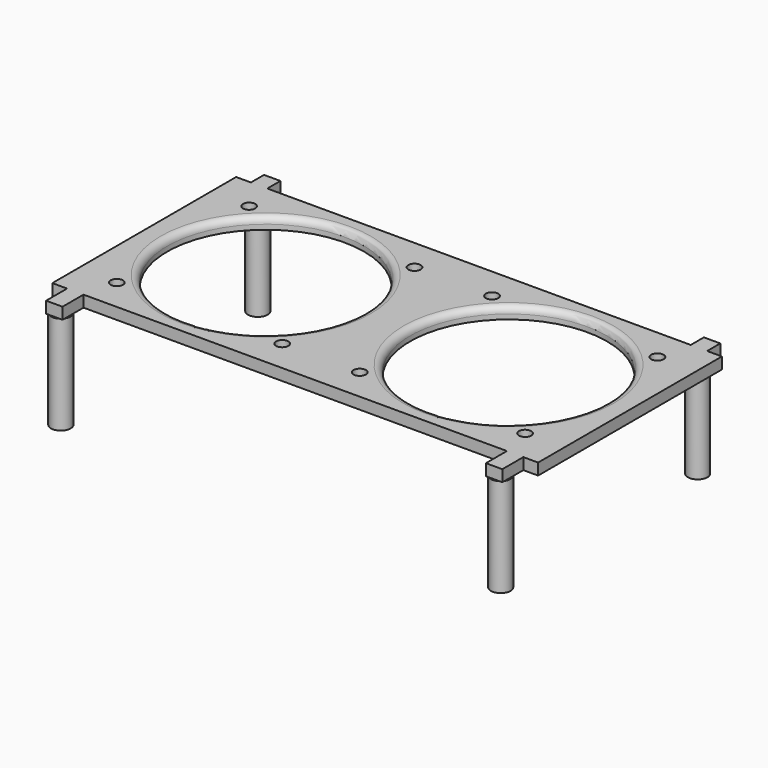
from build123d import *

# Parameters (mm, degrees)
F0_R      = 30
F0_W      = 5
F0_H      = 5
F3_DEPTH  = 3.5
F1_R      = 1.875
F4_DEPTH  = 25
F2_R      = 1.875
F5_DEPTH  = 25
F6_R      = 2
F7_R      = 3
F8_DEPTH  = 30
F10_R     = 1.575
F11_DEPTH = 7


with BuildPart() as f3:
    # F0 (on Top) → F3 (new body)
    with BuildSketch(Plane.XY):
        Polygon((69.5, -35), (74, -35), (74, 35), (69.5, 35), (64.5, 35), (-64.5, 35), (-69.5, 35), (-74, 35), (-74, -35), (-69.5, -35), (-69.5, -43), (-64.5, -43), (-64.5, -35), (64.5, -35), (64.5, -43), (69.5, -43), align=None)
        with Locations((-37, 0)):
            Circle(F0_R, mode=Mode.SUBTRACT)
        with Locations((37, 0)):
            Circle(F0_R, mode=Mode.SUBTRACT)
        with Locations((67, 37.5)):
            Rectangle(F0_W, F0_H)
        with Locations((-67, 37.5)):
            Rectangle(F0_W, F0_H)
    extrude(amount=F3_DEPTH)

    # F1 (on face) → F4 (cut)
    with BuildSketch(Plane.XY):
        with Locations((-62.19, 25.19)):
            Circle(F1_R)
        with Locations((-11.81, 25.19)):
            Circle(F1_R)
        with Locations((-62.19, -25.19)):
            Circle(F1_R)
        with Locations((-11.81, -25.19)):
            Circle(F1_R)
    extrude(amount=F4_DEPTH, mode=Mode.SUBTRACT)

    # F2 (on Top) → F5 (cut)
    with BuildSketch(Plane.XY):
        with Locations((11.81, 25.19)):
            Circle(F2_R)
        with Locations((11.81, -25.19)):
            Circle(F2_R)
        with Locations((62.19, 25.19)):
            Circle(F2_R)
        with Locations((62.19, -25.19)):
            Circle(F2_R)
    extrude(amount=F5_DEPTH, mode=Mode.SUBTRACT)

    # F6
    f6_edges = [f3.edges().sort_by_distance(p)[0] for p in [
        (-67, 0, 3.5),
        (7, 0, 3.5),
    ]]
    fillet(f6_edges, radius=F6_R)

    # F7 (on Top) → F8 (join)
    with BuildSketch(Plane.XY):
        with Locations((-67, -40.5)):
            Circle(F7_R)
        with Locations((67, -40.5)):
            Circle(F7_R)
        with Locations((-67, 34.5)):
            Circle(F7_R)
        with Locations((67, 34.5)):
            Circle(F7_R)
    extrude(amount=-F8_DEPTH)

    # F10 (on offset) → F11 (cut)
    with BuildSketch(Plane.XY.offset(-30)):
        with Locations((-67, -40.5)):
            Circle(F10_R)
        with Locations((-67, 34.5)):
            Circle(F10_R)
        with Locations((67, -40.5)):
            Circle(F10_R)
        with Locations((67, 34.5)):
            Circle(F10_R)
    extrude(amount=F11_DEPTH, mode=Mode.SUBTRACT)


solid = f3.part
